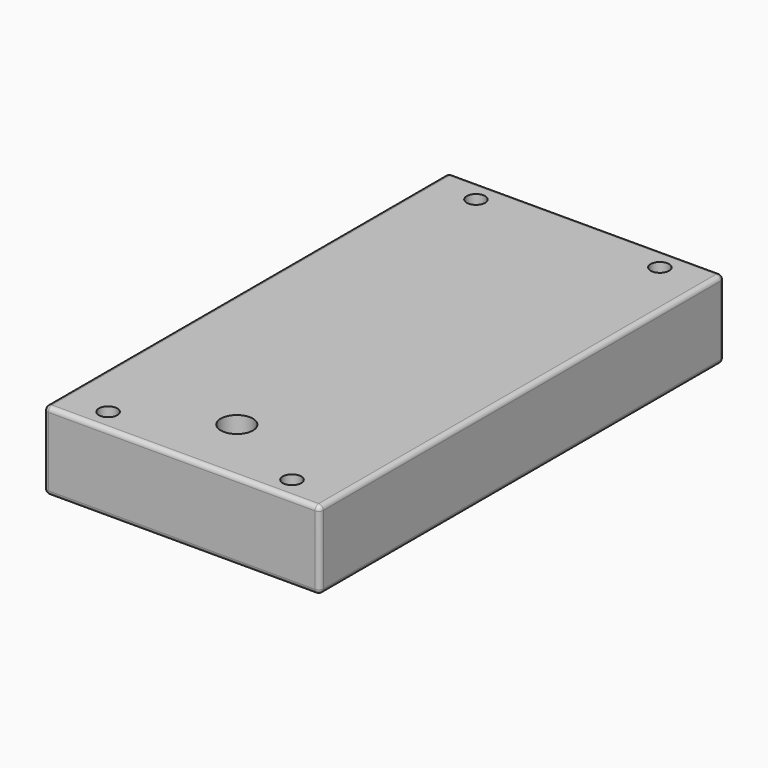
from build123d import *

# Parameters (mm, degrees)
F0_W     = 60
F0_H     = 110
F0_R     = 2
F1_DEPTH = 8.5
F2_R     = 1
F3_R     = 3.5
F4_DEPTH = 25


with BuildPart() as f1:
    # F0 (on Top) → F1 (new body, symmetric)
    with BuildSketch(Plane.XY):
        Rectangle(F0_W, F0_H)
        with Locations((-20, -50)):
            Circle(F0_R, mode=Mode.SUBTRACT)
        with Locations((20, -50)):
            Circle(F0_R, mode=Mode.SUBTRACT)
        with Locations((-20, 50)):
            Circle(F0_R, mode=Mode.SUBTRACT)
        with Locations((20, 50)):
            Circle(F0_R, mode=Mode.SUBTRACT)
    extrude(amount=F1_DEPTH, both=True)

    # F2
    f2_edges = [f1.edges().sort_by_distance(p)[0] for p in [
        (30, 0, 8.5),
        (0, -55, 8.5),
        (-30, 0, 8.5),
        (0, 55, 8.5),
        (30, 0, -8.5),
        (30, -55, 0),
        (30, 55, 0),
        (0, 55, -8.5),
        (-30, 0, -8.5),
        (-30, 55, 0),
        (-30, -55, 0),
        (0, -55, -8.5),
    ]]
    fillet(f2_edges, radius=F2_R)

    # F3 (on face) → F4 (cut)
    with BuildSketch(Plane.XY.offset(8.5)):
        with Locations((0, -40)):
            Circle(F3_R)
    extrude(amount=-F4_DEPTH, mode=Mode.SUBTRACT)


solid = f1.part
